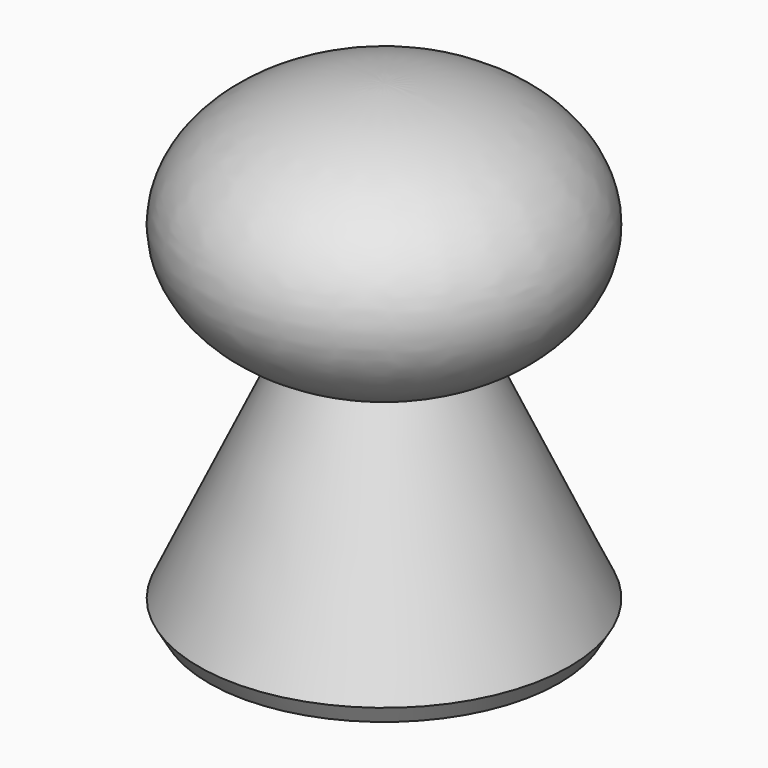
from build123d import *


with BuildPart() as f1:
    # F0 (on Front) → F1 (revolve)
    with BuildSketch(Plane.XZ):
        with BuildLine():
            Line((2.449535, 25.4), (0, 25.4))
            Line((0, 25.4), (0, 15.875))
            add(Edge.make_bspline(
                [(0, 15.875), (3.389549, 15.875), (6.418183, 16.889207)],
                knots=[4.712389, 4.712389, 4.712389, 5.178058, 5.178058, 5.178058], degree=2, weights=[1, 0.973016, 1]))
            Line((6.418183, 16.889207), (2.449535, 25.4))
        make_face()
        with BuildLine():
            Line((0, 34.925), (0, 25.4))
            Line((0, 25.4), (2.449535, 25.4))
            Line((2.449535, 25.4), (6.418183, 16.889207))
            add(Edge.make_bspline(
                [(6.418183, 16.889207), (14.29375, 19.526519), (14.29375, 25.4)],
                knots=[5.178058, 5.178058, 5.178058, 6.283185, 6.283185, 6.283185], degree=2, weights=[1, 0.851182, 1]))
            add(Edge.make_bspline(
                [(14.29375, 25.4), (14.29375, 34.925), (0, 34.925)],
                knots=[0, 0, 0, 1.570796, 1.570796, 1.570796], degree=2, weights=[1, 0.707107, 1]))
        make_face()
        with BuildLine():
            add(Edge.make_bspline(
                [(0, 15.875), (3.389549, 15.875), (6.418183, 16.889207)],
                knots=[4.712389, 4.712389, 4.712389, 5.178058, 5.178058, 5.178058], degree=2, weights=[1, 0.973016, 1]))
            Line((0, 15.875), (0, 7.335957))
            ThreePointArc((0, 7.335957), (7.335957, 5.370293), (12.70625, 0))
            Line((12.70625, 0), (13.5, -1.374815))
            Line((13.5, -1.374815), (14.29375, 0))
            Line((14.29375, 0), (6.418183, 16.889207))
        make_face()
    revolve(axis=Axis((0, 0, 3.082151), (0, 0, -1)))


solid = f1.part
